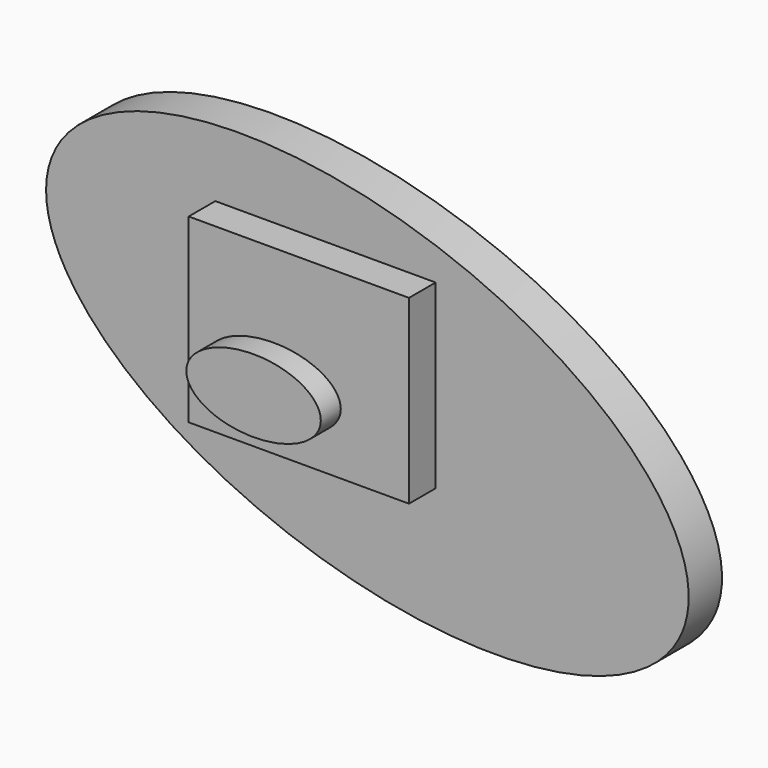
from build123d import *

# Parameters (mm, degrees)
F1_DEPTH = 6.35
F2_W     = 33.610743
F2_H     = 27.647094
F3_DEPTH = 5.08
F5_DEPTH = 3.81


with BuildPart() as f1:
    # F0 (on Front) → F1 (new body)
    with BuildSketch(Plane.XZ):
        with BuildLine():
            add(Edge.make_bspline(
                [(48.416666, -15.377466), (61.733942, 26.552596), (-17.549695, 28.653764), (-96.833332, 30.754932), (-30.866971, -13.276298), (35.09939, -57.307529), (48.416666, -15.377466)],
                knots=[0, 0, 0, 2.094395, 2.094395, 4.18879, 4.18879, 6.283185, 6.283185, 6.283185], degree=2, weights=[1, 0.5, 1, 0.5, 1, 0.5, 1]))
        make_face()
    extrude(amount=F1_DEPTH)

    # F2 (on face) → F3 (join)
    with BuildSketch(Plane.XZ.offset(6.35)):
        with Locations((-6.397597, 4.487225)):
            Rectangle(F2_W, F2_H)
    extrude(amount=F3_DEPTH)

    # F4 (on face) → F5 (join)
    with BuildSketch(Plane.XZ.offset(11.43)):
        with BuildLine():
            add(Edge.make_bspline(
                [(0, 0), (0, 9.663935), (-15.386994, 4.831968), (-30.773987, 0), (-15.386994, -4.831968), (0, -9.663935), (0, 0)],
                knots=[0, 0, 0, 2.094395, 2.094395, 4.18879, 4.18879, 6.283185, 6.283185, 6.283185], degree=2, weights=[1, 0.5, 1, 0.5, 1, 0.5, 1]))
        make_face()
    extrude(amount=F5_DEPTH)


solid = f1.part
